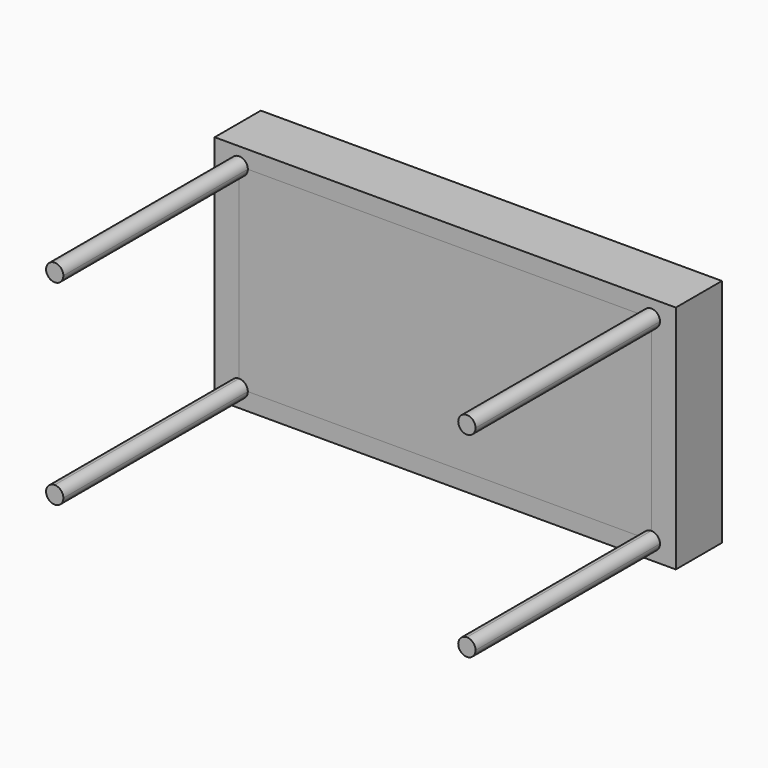
from build123d import *

# Parameters (mm, degrees)
F0_W     = 203.2
F0_H     = 101.6
F1_DEPTH = 25.4
F2_DEPTH = 101.6
F3_DEPTH = 12.7
F4_DEPTH = 25.4


with BuildPart() as f1:
    # F0 (on Front) → F1 (new body)
    with BuildSketch(Plane.XZ):
        Rectangle(F0_W, F0_H)
        with BuildLine():
            ThreePointArc((-90.8121094108, 39.3114757264), (-93.5061862471, 45.8155525627), (-87.0021094108, 43.1214757264))
            Line((-87.0021094108, 43.1214757264), (87.0021094108, 43.1214757264))
            ThreePointArc((87.0021094108, 43.1214757264), (90.8121094108, 46.9314757264), (94.6221094108, 43.1214757264))
            ThreePointArc((94.6221094108, 43.1214757264), (93.5061862471, 40.42739889), (90.8121094108, 39.3114757264))
            Line((90.8121094108, 39.3114757264), (90.8121094108, -39.3114757264))
            ThreePointArc((90.8121094108, -39.3114757264), (93.5061862471, -40.42739889), (94.6221094108, -43.1214757264))
            ThreePointArc((94.6221094108, -43.1214757264), (90.8121094108, -46.9314757264), (87.0021094108, -43.1214757264))
            Line((87.0021094108, -43.1214757264), (-87.0021094108, -43.1214757264))
            ThreePointArc((-87.0021094108, -43.1214757264), (-93.5061862471, -45.8155525627), (-90.8121094108, -39.3114757264))
            Line((-90.8121094108, -39.3114757264), (-90.8121094108, 39.3114757264))
        make_face(mode=Mode.SUBTRACT)
    extrude(amount=-F1_DEPTH)


with BuildPart() as f2:
    # F0 (on Front) → F2 (new body)
    with BuildSketch(Plane.XZ):
        with BuildLine():
            Line((-90.8121094108, 43.1214757264), (-87.0021094108, 43.1214757264))
            ThreePointArc((-87.0021094108, 43.1214757264), (-93.5061862471, 45.8155525627), (-90.8121094108, 39.3114757264))
            Line((-90.8121094108, 39.3114757264), (-90.8121094108, 43.1214757264))
        make_face()
        with BuildLine():
            ThreePointArc((-90.8121094108, 39.3114757264), (-88.1180325744, 40.42739889), (-87.0021094108, 43.1214757264))
            Line((-87.0021094108, 43.1214757264), (-90.8121094108, 43.1214757264))
            Line((-90.8121094108, 43.1214757264), (-90.8121094108, 39.3114757264))
        make_face()
    extrude(amount=F2_DEPTH)


with BuildPart() as f2b:
    # F0 (on Front) → F2, piece 2 (new body)
    with BuildSketch(Plane.XZ):
        with BuildLine():
            ThreePointArc((-87.0021094108, -43.1214757264), (-88.1180325744, -40.42739889), (-90.8121094108, -39.3114757264))
            Line((-90.8121094108, -39.3114757264), (-90.8121094108, -43.1214757264))
            Line((-90.8121094108, -43.1214757264), (-87.0021094108, -43.1214757264))
        make_face()
        with BuildLine():
            Line((-90.8121094108, -43.1214757264), (-90.8121094108, -39.3114757264))
            ThreePointArc((-90.8121094108, -39.3114757264), (-93.5061862471, -45.8155525627), (-87.0021094108, -43.1214757264))
            Line((-87.0021094108, -43.1214757264), (-90.8121094108, -43.1214757264))
        make_face()
    extrude(amount=F2_DEPTH)


with BuildPart() as f2c:
    # F0 (on Front) → F2, piece 3 (new body)
    with BuildSketch(Plane.XZ):
        with BuildLine():
            ThreePointArc((94.6221094108, -43.1214757264), (93.5061862471, -40.42739889), (90.8121094108, -39.3114757264))
            Line((90.8121094108, -39.3114757264), (90.8121094108, -43.1214757264))
            Line((90.8121094108, -43.1214757264), (87.0021094108, -43.1214757264))
            ThreePointArc((87.0021094108, -43.1214757264), (90.8121094108, -46.9314757264), (94.6221094108, -43.1214757264))
        make_face()
        with BuildLine():
            Line((90.8121094108, -43.1214757264), (90.8121094108, -39.3114757264))
            ThreePointArc((90.8121094108, -39.3114757264), (88.1180325744, -40.42739889), (87.0021094108, -43.1214757264))
            Line((87.0021094108, -43.1214757264), (90.8121094108, -43.1214757264))
        make_face()
    extrude(amount=F2_DEPTH)


with BuildPart() as f2d:
    # F0 (on Front) → F2, piece 4 (new body)
    with BuildSketch(Plane.XZ):
        with BuildLine():
            Line((90.8121094108, 43.1214757264), (87.0021094108, 43.1214757264))
            ThreePointArc((87.0021094108, 43.1214757264), (88.1180325744, 40.42739889), (90.8121094108, 39.3114757264))
            Line((90.8121094108, 39.3114757264), (90.8121094108, 43.1214757264))
        make_face()
        with BuildLine():
            ThreePointArc((94.6221094108, 43.1214757264), (90.8121094108, 46.9314757264), (87.0021094108, 43.1214757264))
            Line((87.0021094108, 43.1214757264), (90.8121094108, 43.1214757264))
            Line((90.8121094108, 43.1214757264), (90.8121094108, 39.3114757264))
            ThreePointArc((90.8121094108, 39.3114757264), (93.5061862471, 40.42739889), (94.6221094108, 43.1214757264))
        make_face()
    extrude(amount=F2_DEPTH)


with BuildPart() as f3:
    # F0 (on Front) → F3 (new body)
    with BuildSketch(Plane.XZ):
        with BuildLine():
            Line((87.0021094108, 43.1214757264), (-87.0021094108, 43.1214757264))
            ThreePointArc((-87.0021094108, 43.1214757264), (-88.1180325744, 40.42739889), (-90.8121094108, 39.3114757264))
            Line((-90.8121094108, 39.3114757264), (-90.8121094108, -39.3114757264))
            ThreePointArc((-90.8121094108, -39.3114757264), (-88.1180325744, -40.42739889), (-87.0021094108, -43.1214757264))
            Line((-87.0021094108, -43.1214757264), (87.0021094108, -43.1214757264))
            ThreePointArc((87.0021094108, -43.1214757264), (88.1180325744, -40.42739889), (90.8121094108, -39.3114757264))
            Line((90.8121094108, -39.3114757264), (90.8121094108, 39.3114757264))
            ThreePointArc((90.8121094108, 39.3114757264), (88.1180325744, 40.42739889), (87.0021094108, 43.1214757264))
        make_face()
    extrude(amount=-F3_DEPTH)


with BuildPart() as f4:
    # F0 (on Front) → F4 (new body)
    with BuildSketch(Plane.XZ):
        with BuildLine():
            Line((-90.8121094108, -43.1214757264), (-90.8121094108, -39.3114757264))
            ThreePointArc((-90.8121094108, -39.3114757264), (-93.5061862471, -45.8155525627), (-87.0021094108, -43.1214757264))
            Line((-87.0021094108, -43.1214757264), (-90.8121094108, -43.1214757264))
        make_face()
        with BuildLine():
            ThreePointArc((-87.0021094108, -43.1214757264), (-88.1180325744, -40.42739889), (-90.8121094108, -39.3114757264))
            Line((-90.8121094108, -39.3114757264), (-90.8121094108, -43.1214757264))
            Line((-90.8121094108, -43.1214757264), (-87.0021094108, -43.1214757264))
        make_face()
    extrude(amount=-F4_DEPTH)


with BuildPart() as f4b:
    # F0 (on Front) → F4, piece 2 (new body)
    with BuildSketch(Plane.XZ):
        with BuildLine():
            Line((-90.8121094108, 43.1214757264), (-87.0021094108, 43.1214757264))
            ThreePointArc((-87.0021094108, 43.1214757264), (-93.5061862471, 45.8155525627), (-90.8121094108, 39.3114757264))
            Line((-90.8121094108, 39.3114757264), (-90.8121094108, 43.1214757264))
        make_face()
        with BuildLine():
            ThreePointArc((-90.8121094108, 39.3114757264), (-88.1180325744, 40.42739889), (-87.0021094108, 43.1214757264))
            Line((-87.0021094108, 43.1214757264), (-90.8121094108, 43.1214757264))
            Line((-90.8121094108, 43.1214757264), (-90.8121094108, 39.3114757264))
        make_face()
    extrude(amount=-F4_DEPTH)


with BuildPart() as f4c:
    # F0 (on Front) → F4, piece 3 (new body)
    with BuildSketch(Plane.XZ):
        with BuildLine():
            ThreePointArc((94.6221094108, 43.1214757264), (90.8121094108, 46.9314757264), (87.0021094108, 43.1214757264))
            Line((87.0021094108, 43.1214757264), (90.8121094108, 43.1214757264))
            Line((90.8121094108, 43.1214757264), (90.8121094108, 39.3114757264))
            ThreePointArc((90.8121094108, 39.3114757264), (93.5061862471, 40.42739889), (94.6221094108, 43.1214757264))
        make_face()
        with BuildLine():
            Line((90.8121094108, 43.1214757264), (87.0021094108, 43.1214757264))
            ThreePointArc((87.0021094108, 43.1214757264), (88.1180325744, 40.42739889), (90.8121094108, 39.3114757264))
            Line((90.8121094108, 39.3114757264), (90.8121094108, 43.1214757264))
        make_face()
    extrude(amount=-F4_DEPTH)


with BuildPart() as f4d:
    # F0 (on Front) → F4, piece 4 (new body)
    with BuildSketch(Plane.XZ):
        with BuildLine():
            ThreePointArc((94.6221094108, -43.1214757264), (93.5061862471, -40.42739889), (90.8121094108, -39.3114757264))
            Line((90.8121094108, -39.3114757264), (90.8121094108, -43.1214757264))
            Line((90.8121094108, -43.1214757264), (87.0021094108, -43.1214757264))
            ThreePointArc((87.0021094108, -43.1214757264), (90.8121094108, -46.9314757264), (94.6221094108, -43.1214757264))
        make_face()
        with BuildLine():
            Line((90.8121094108, -43.1214757264), (90.8121094108, -39.3114757264))
            ThreePointArc((90.8121094108, -39.3114757264), (88.1180325744, -40.42739889), (87.0021094108, -43.1214757264))
            Line((87.0021094108, -43.1214757264), (90.8121094108, -43.1214757264))
        make_face()
    extrude(amount=-F4_DEPTH)


solid = Compound([f1.part, f2.part, f2b.part, f2c.part, f2d.part, f3.part, f4.part, f4b.part, f4c.part, f4d.part])
